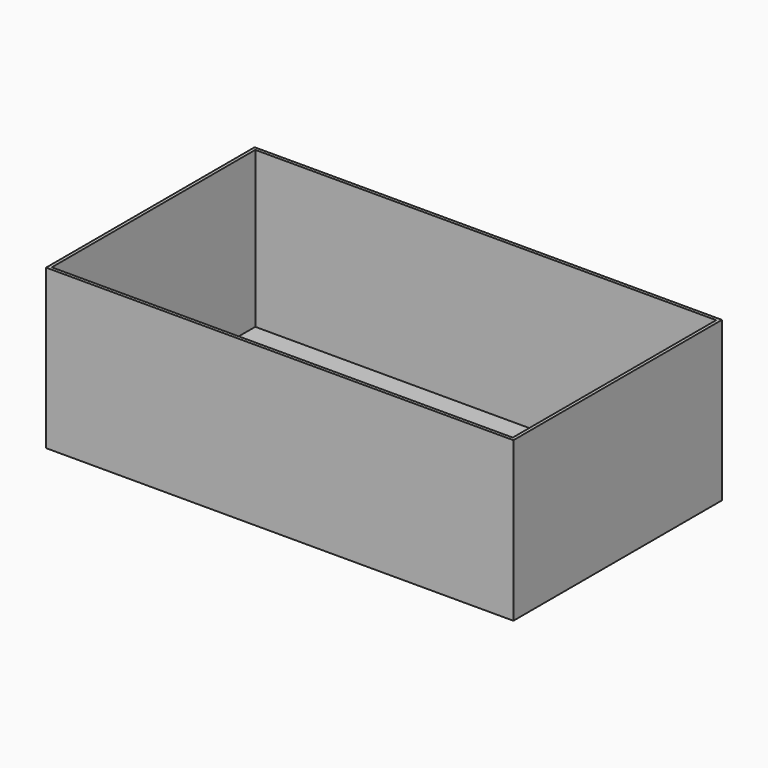
from build123d import *

# Parameters (mm, degrees)
F0_W     = 147
F0_H     = 82
F1_DEPTH = 50
F2_T     = -1


with BuildPart() as f1:
    # F0 (on Top) → F1 (new body)
    with BuildSketch(Plane.XY):
        with Locations((-95.298209, -46.550309)):
            Rectangle(F0_W, F0_H)
    extrude(amount=F1_DEPTH)

    # F2
    f2_openings = [f1.faces().sort_by_distance(p)[0] for p in [
        (-95.298209, -46.550309, 50),
    ]]
    offset(amount=F2_T, openings=f2_openings)


with BuildPart() as f1_1:
    # F3: moved
    add(f1.part.moved(Location((38.9, 0, 0))))


solid = f1_1.part
